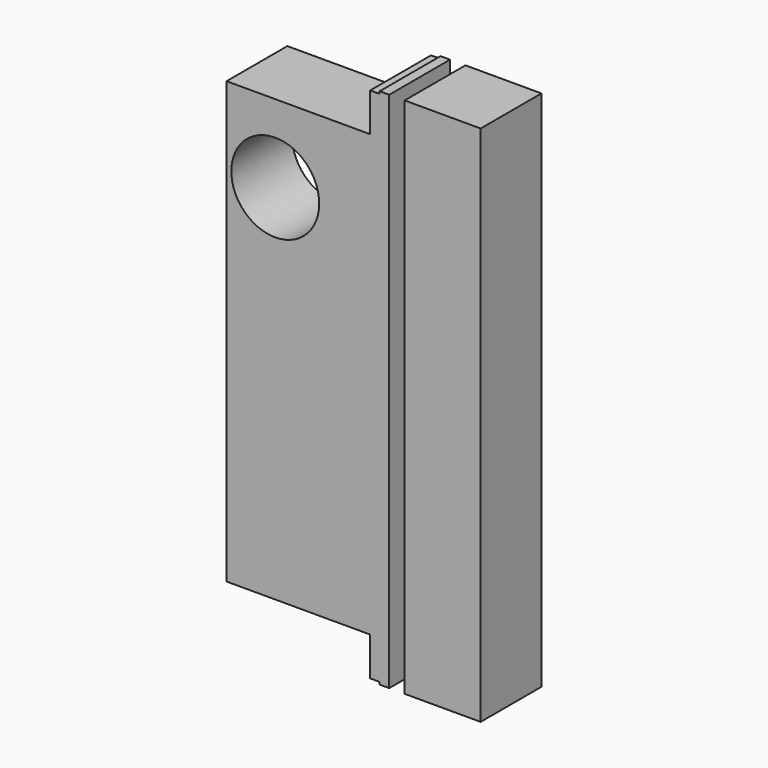
from build123d import *

# Parameters (mm, degrees)
F0_R     = 14.684375
F0_W     = 25.4
F0_H     = 174.625
F1_DEPTH = 25.4


with BuildPart() as f1:
    # F0 (on Front) → F1 (new body)
    with BuildSketch(Plane.XZ):
        Polygon((21.38521, 62.507813), (-26.636665, 62.507813), (-26.636665, -84.732813), (21.38521, -84.732812), (21.38521, -97.63125), (24.56021, -97.63125), (24.56021, -98.425), (27.73521, -98.425), (27.73521, 76.2), (24.56021, 76.2), (24.56021, 75.40625), (21.38521, 75.40625), align=None)
        with Locations((-10.36479, 36.5125)):
            Circle(F0_R, mode=Mode.SUBTRACT)
        with Locations((45.583543, -11.1125)):
            Rectangle(F0_W, F0_H)
    extrude(amount=F1_DEPTH)


solid = f1.part
